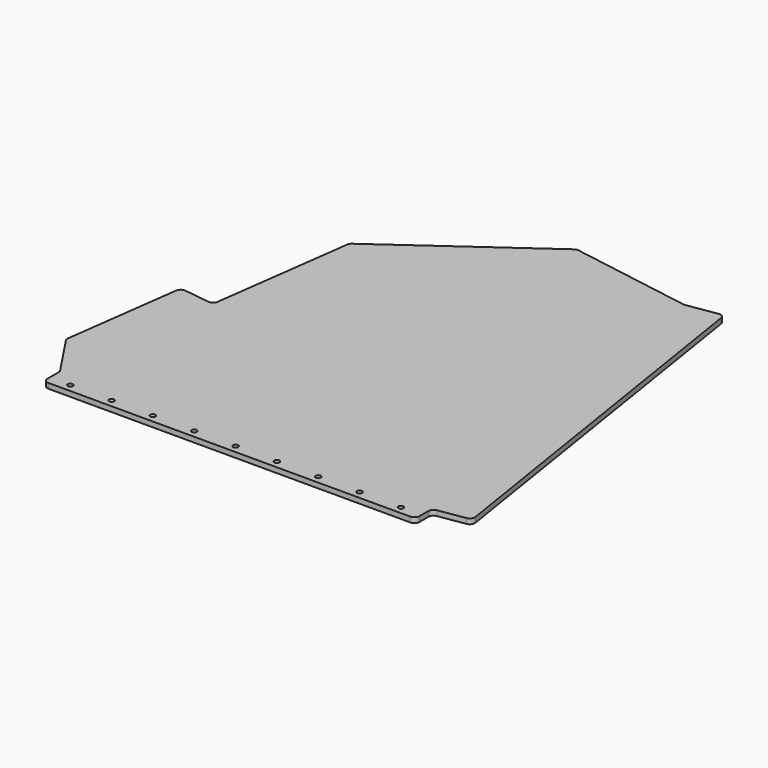
from build123d import *

# Parameters (mm, degrees)
F0_R     = 3.175
F1_DEPTH = 6.35


with BuildPart() as f1:
    # F0 (on Top) → F1 (new body)
    with BuildSketch(Plane.XY):
        with BuildLine():
            ThreePointArc((0, 6.35), (1.859872, 1.859872), (6.35, 0))
            Line((6.35, 0), (450.85, 0))
            ThreePointArc((450.85, 0), (455.340128, 1.859872), (457.2, 6.35))
            Line((457.2, 6.35), (457.2, 19.973964))
            ThreePointArc((457.2, 19.973964), (458.722407, 24.099112), (462.559638, 26.246259))
            Line((462.559638, 26.246259), (494.833769, 31.342174))
            ThreePointArc((494.833769, 31.342174), (498.978881, 33.879579), (500.115701, 38.604831))
            Line((500.115701, 38.604831), (425.896426, 508.660242))
            ThreePointArc((425.896426, 508.660242), (423.359022, 512.805353), (418.633769, 513.942174))
            Line((418.633769, 513.942174), (382.017853, 508.160714))
            ThreePointArc((382.017853, 508.160714), (381.000355, 508.083066), (379.983557, 508.169407))
            Line((379.983557, 508.169407), (231.194469, 532.967589))
            ThreePointArc((231.194469, 532.967589), (228.718027, 532.890296), (226.459673, 531.871195))
            Line((226.459673, 531.871195), (53.039675, 407.999768))
            ThreePointArc((53.039675, 407.999768), (51.289151, 406.105757), (50.43624, 403.6718))
            Line((50.43624, 403.6718), (27.694908, 233.111807))
            ThreePointArc((27.694908, 233.111807), (25.257919, 228.906874), (20.561371, 227.656749))
            Line((20.561371, 227.656749), (-10.910115, 231.852947))
            ThreePointArc((-10.910115, 231.852947), (-15.606663, 230.602822), (-18.043652, 226.39789))
            Line((-18.043652, 226.39789), (-37.030831, 83.994043))
            ThreePointArc((-37.030831, 83.994043), (-36.923826, 81.726546), (-36.026119, 79.641572))
            Line((-36.026119, 79.641572), (-1.060415, 26.996581))
            ThreePointArc((-1.060415, 26.996581), (-0.270882, 25.318239), (0, 23.483349))
            Line((0, 23.483349), (0, 6.35))
        make_face()
        with Locations((25.4, 9.525)):
            Circle(F0_R, mode=Mode.SUBTRACT)
        with Locations((76.2, 9.525)):
            Circle(F0_R, mode=Mode.SUBTRACT)
        with Locations((127, 9.525)):
            Circle(F0_R, mode=Mode.SUBTRACT)
        with Locations((177.8, 9.525)):
            Circle(F0_R, mode=Mode.SUBTRACT)
        with Locations((228.6, 9.525)):
            Circle(F0_R, mode=Mode.SUBTRACT)
        with Locations((279.4, 9.525)):
            Circle(F0_R, mode=Mode.SUBTRACT)
        with Locations((330.2, 9.525)):
            Circle(F0_R, mode=Mode.SUBTRACT)
        with Locations((381, 9.525)):
            Circle(F0_R, mode=Mode.SUBTRACT)
        with Locations((431.8, 9.525)):
            Circle(F0_R, mode=Mode.SUBTRACT)
    extrude(amount=F1_DEPTH)


solid = f1.part
